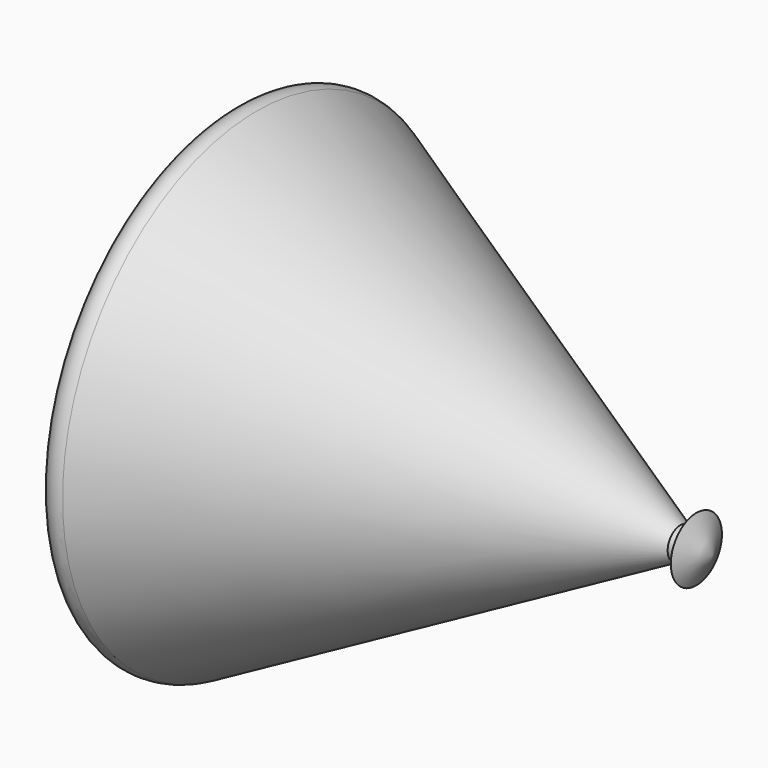
from build123d import *


with BuildPart() as f1:
    # F0 (on Top) → F1 (revolve)
    with BuildSketch(Plane.XY):
        with BuildLine():
            Line((-386.290334, 50), (-386.290334, 0))
            Line((-386.290334, 0), (-232.966974, 0))
            Line((-232.966974, 0), (-221.291934, 0))
            Line((-221.291934, 0), (-226.290334, 10))
            Line((-226.290334, 10), (-226.290334, 5))
            Line((-226.290334, 5), (-231.290334, 5))
            Line((-231.290334, 5), (-363.929227, 76.05655))
            ThreePointArc((-363.929227, 76.05655), (-368.858842, 75.938995), (-371.290334, 71.64915))
            Line((-371.290334, 71.64915), (-371.290334, 50))
            Line((-371.290334, 50), (-386.290334, 50))
        make_face()
    revolve(axis=Axis((-309.628654, 0, 0), (-1, 0, 0)))


solid = f1.part
